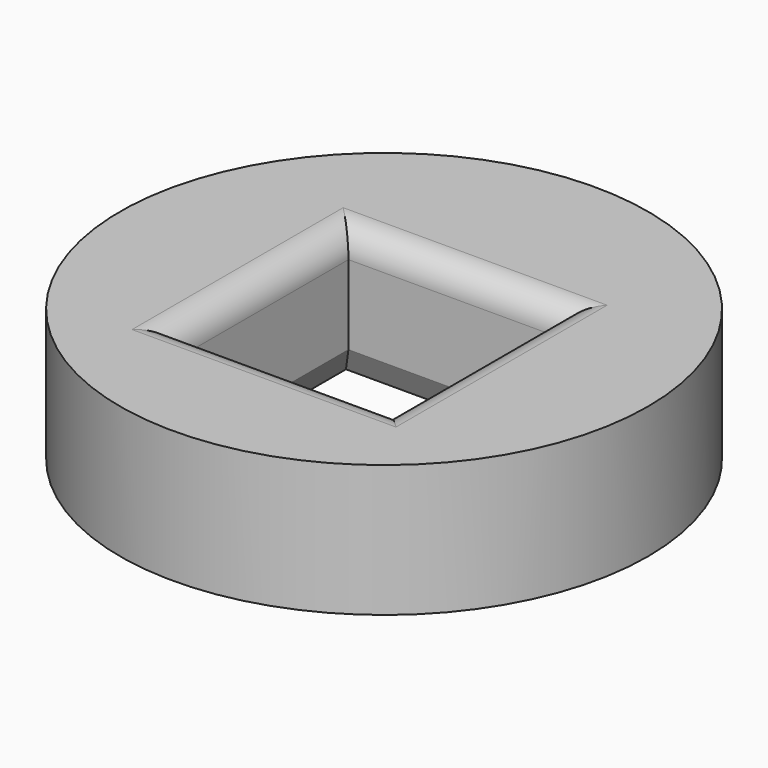
from build123d import *

# Parameters (mm, degrees)
F0_R     = 50
F0_W     = 40
F0_H     = 40
F1_DEPTH = 25
F2_R     = 5
F3_SIZE2 = 5
F3_SIZE  = 2.3315382908


with BuildPart() as f1:
    # F0 (on Top) → F1 (new body)
    with BuildSketch(Plane.XY):
        Circle(F0_R)
        with Locations((0, -3.4369069617)):
            Rectangle(F0_W, F0_H, mode=Mode.SUBTRACT)
    extrude(amount=F1_DEPTH)

    # F2
    f2_edges = [f1.edges().sort_by_distance(p)[0] for p in [
        (0, 16.563093, 25),
        (-20, -3.436907, 25),
        (20, -3.436907, 25),
        (0, -23.436907, 25),
    ]]
    fillet(f2_edges, radius=F2_R)

    # F3
    f3_edges = [f1.edges().sort_by_distance(p)[0] for p in [
        (0, -23.436907, 0),
        (-20, -3.436907, 0),
        (0, 16.563093, 0),
        (20, -3.436907, 0),
    ]]
    f3_side = f1.faces().sort_by_distance((-48.585786, 0, 0))[0]
    chamfer(f3_edges, length=F3_SIZE, length2=F3_SIZE2, reference=f3_side)


solid = f1.part
